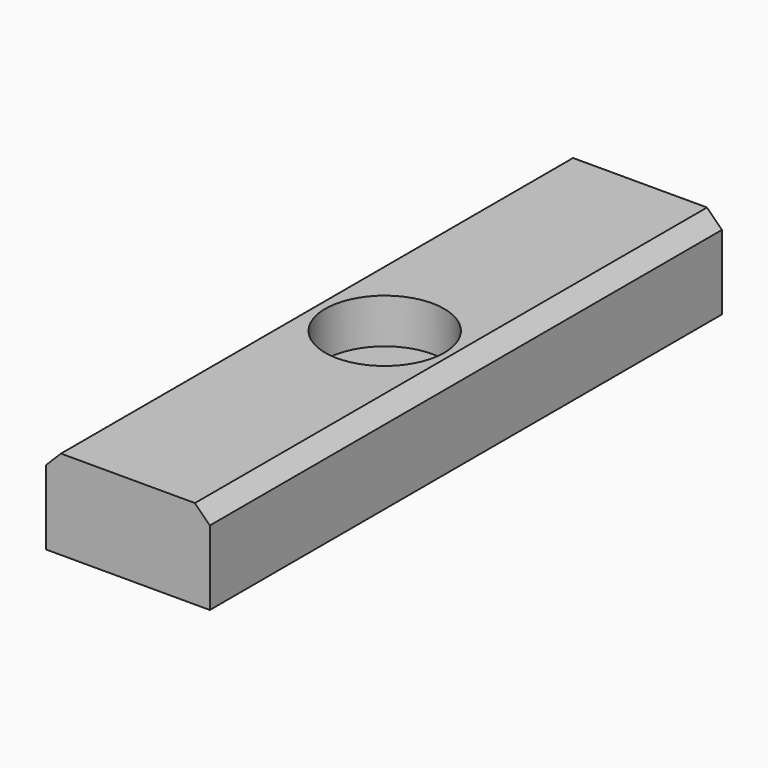
from build123d import *

# Parameters (mm, degrees)
F0_W     = 34.925
F0_H     = 136.525
F1_DEPTH = 19.05
F2_SIZE  = 3.175
F3_R     = 12.7
F4_DEPTH = 9.525
F5_R     = 3.96875
F6_DEPTH = 19.051
F7_DEPTH = 9.525


with BuildPart() as f1:
    # F0 (on Top) → F1 (new body)
    with BuildSketch(Plane.XY):
        with Locations((-0.155058, 38.657472)):
            Rectangle(F0_W, F0_H)
    extrude(amount=F1_DEPTH)

    # F2
    f2_edges = [f1.edges().sort_by_distance(p)[0] for p in [
        (17.307442, 38.657472, 19.05),
        (-17.617558, 38.657472, 19.05),
    ]]
    chamfer(f2_edges, length=F2_SIZE)

    # F3 (on face) → F4 (join)
    with BuildSketch(Plane.XY.offset(19.05)):
        with Locations((0, 38.657472)):
            Circle(F3_R)
    extrude(amount=-F4_DEPTH)

    # F5 (on face) → F6 (cut, through all)
    with BuildSketch(Plane(origin=(0, 0, 0), x_dir=(1, 0, 0), z_dir=(0, 0, -1))):
        with Locations((0, -38.657472)):
            Circle(F5_R)
    extrude(amount=-F6_DEPTH, mode=Mode.SUBTRACT)

    # F3 (on face) → F7 (cut)
    with BuildSketch(Plane.XY.offset(19.05)):
        with Locations((0, 38.657472)):
            Circle(F3_R)
    extrude(amount=-F7_DEPTH, mode=Mode.SUBTRACT)


solid = f1.part
